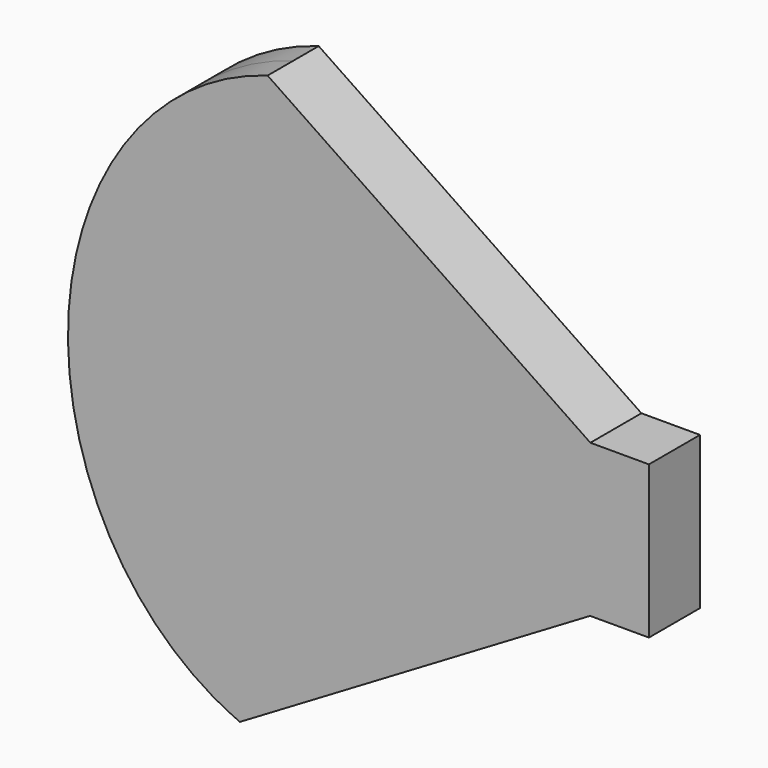
from build123d import *

# Parameters (mm, degrees)
F1_DEPTH = 3.81


with BuildPart() as f1:
    # F0 (on Front) → F1 (new body, symmetric)
    with BuildSketch(Plane.XZ):
        with BuildLine():
            Line((39.999735067, -7.4482769705), (1.4772535285, 18.6058512943))
            add(Edge.make_bspline(
                [(1.4772535285, 18.6058512943), (-95.952662812, -9.8829154217), (-1.8328876207, -50.3882795617)],
                knots=[3.3919385935, 3.3919385935, 3.3919385935, 5.9232263676, 5.9232263676, 5.9232263676], degree=2, weights=[1, 0.3004385759, 1]))
            Line((-1.8328876207, -50.3882795617), (39.9715108869, -25.6507564336))
            Line((39.9715108869, -25.6507564336), (46.9909198582, -25.6507564336))
            Line((46.9909198582, -25.6507564336), (46.9909198582, -7.4482769705))
            Line((46.9909198582, -7.4482769705), (39.999735067, -7.4482769705))
        make_face()
    extrude(amount=F1_DEPTH, both=True)


solid = f1.part
